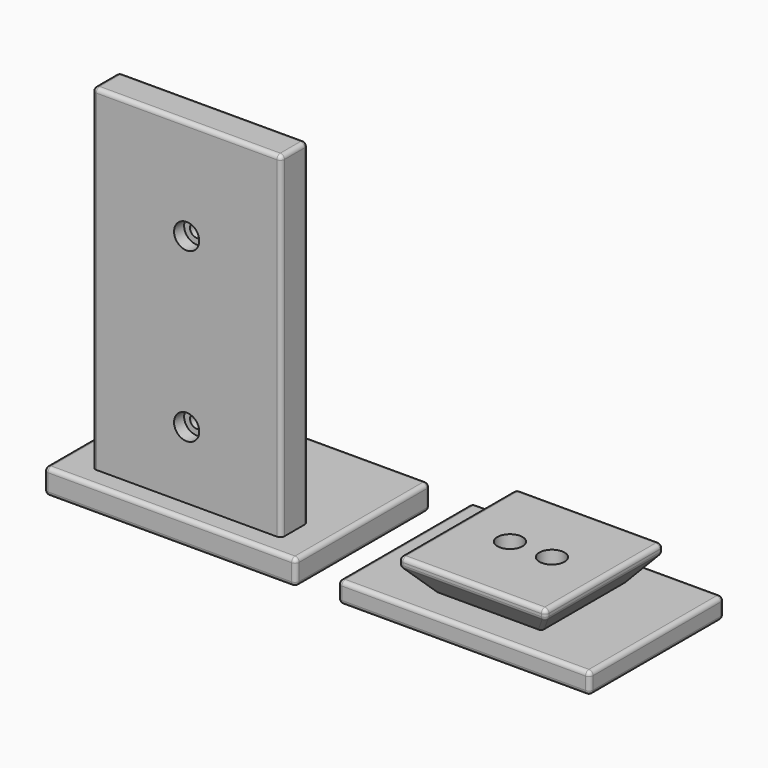
from build123d import *

# Parameters (mm, degrees)
CYLINDER001_R                        = 3
CYLINDER001_DEPTH                    = 10
CYLINDER002_R                        = 3
CYLINDER002_DEPTH                    = 10
CYLINDER003_R                        = 1.6
CYLINDER003_DEPTH                    = 10
CYLINDER_R                           = 1.6
CYLINDER_DEPTH                       = 10
SKETCH_W                             = 60
SKETCH_H                             = 40
EXTRUDE001_DEPTH                     = 5
FILLET001_R                          = 1
EXTRUDE003_DEPTH                     = 35
EXTRUDE003_ONTO_SKETCH002_ROLL_ANGLE = 90
EXTRUDE005_DEPTH                     = 35
SKETCH001_W                          = 35
SKETCH001_H                          = 35
EXTRUDE002_DEPTH                     = 8
FILLET_R                             = 1
CYLINDER005_R                        = 1.6
CYLINDER005_DEPTH                    = 10
EXTRUDE007_DEPTH                     = 3
EXTRUDE008_DEPTH                     = 3
CYLINDER004_R                        = 1.6
CYLINDER004_DEPTH                    = 10
SKETCH005_W                          = 60
SKETCH005_H                          = 40
EXTRUDE_DEPTH                        = 6
FILLET002_R                          = 1
CYLINDER008_R                        = 3
CYLINDER008_DEPTH                    = 3
CYLINDER006_R                        = 1.6
CYLINDER006_DEPTH                    = 10
CYLINDER007_R                        = 1.6
CYLINDER007_DEPTH                    = 10
CYLINDER009_R                        = 3
CYLINDER009_DEPTH                    = 3
SKETCH008_AS_DRAWN_W                 = 45
SKETCH008_AS_DRAWN_H                 = 80
EXTRUDE009_DEPTH                     = 8
EXTRUDE009_ONTO_SKETCH008_ROLL_ANGLE = 90
FILLET003_R                          = 1


with BuildPart() as cylinder001:
    # Cylinder001 → Cylinder001 (new body)
    with BuildSketch(Plane(origin=(5, 0, 3), x_dir=(1, 0, 0), z_dir=(0, 0, 1))):
        Circle(CYLINDER001_R)
    extrude(amount=CYLINDER001_DEPTH)


with BuildPart() as cylinder002:
    # Cylinder002 → Cylinder002 (new body)
    with BuildSketch(Plane(origin=(-5, 0, 3), x_dir=(1, 0, 0), z_dir=(0, 0, 1))):
        Circle(CYLINDER002_R)
    extrude(amount=CYLINDER002_DEPTH)


with BuildPart() as cylinder003:
    # Cylinder003 → Cylinder003 (new body)
    with BuildSketch(Plane(origin=(-5, 0, 0), x_dir=(1, 0, 0), z_dir=(0, 0, 1))):
        Circle(CYLINDER003_R)
    extrude(amount=CYLINDER003_DEPTH)


with BuildPart() as fusion:
    # Cylinder → Cylinder (new body)
    with BuildSketch(Plane(origin=(5, 0, 0), x_dir=(1, 0, 0), z_dir=(0, 0, 1))):
        Circle(CYLINDER_R)
    extrude(amount=CYLINDER_DEPTH)

    # Fusion: union Cylinder001, Cylinder002, Cylinder003
    add(cylinder001.part)
    add(cylinder002.part)
    add(cylinder003.part)


with BuildPart() as fillet001:
    # Sketch → Extrude001 (new body)
    with BuildSketch(Plane.XY):
        Rectangle(SKETCH_W, SKETCH_H)
    extrude(amount=EXTRUDE001_DEPTH)

    # Fillet001
    fillet001_edges = [fillet001.edges().sort_by_distance(p)[0] for p in [
        (-30, 20, 2.5),
        (30, 20, 2.5),
        (0, 20, 0),
        (0, 20, 5),
        (30, -20, 2.5),
        (30, 0, 0),
        (30, 0, 5),
        (-30, -20, 2.5),
        (0, -20, 0),
        (0, -20, 5),
        (-30, 0, 0),
        (-30, 0, 5),
    ]]
    fillet(fillet001_edges, radius=FILLET001_R)


with BuildPart() as extrude003:
    # Sketch002 as drawn → Extrude003 (new)
    with BuildSketch(Plane.XY):
        Polygon((17.5, 11), (17.5, 5), (12.5, 5), align=None)
    extrude(amount=-EXTRUDE003_DEPTH)


with BuildPart() as extrude003_1:
    # Extrude003 onto Sketch002 roll: moved
    add(extrude003.part.rotate(Axis((0, 0, 0), (1, 0, 0)), EXTRUDE003_ONTO_SKETCH002_ROLL_ANGLE))


with BuildPart() as extrude003_2:
    # Extrude003 onto Sketch002 placement: moved
    add(extrude003_1.part)


with BuildPart() as extrude003_3:
    # Extrude003 placement: moved
    add(extrude003_2.part.moved(Location((0, -17.5, 0))))


with BuildPart() as part_mirroring001:
    # Part__Mirroring001: instance of Extrude003
    add(extrude003_3.part.mirror(Plane(origin=(0, 0, 0), x_dir=(0, -1, 0), z_dir=(1, 0, 0))))


with BuildPart() as extrude006:
    # Sketch004 → Extrude005 (new body)
    with BuildSketch(Plane.YZ):
        Polygon((12.5, 5), (17.5, 11), (17.5, 5), align=None)
    extrude(amount=EXTRUDE005_DEPTH)


with BuildPart() as extrude006_1:
    # Extrude005 placement: moved
    add(extrude006.part.moved(Location((-17.5, 0, 0))))


with BuildPart() as part_mirroring:
    # Part__Mirroring: instance of Extrude006
    add(extrude006_1.part.mirror(Plane(origin=(0, 0, 0), x_dir=(1, 0, 0), z_dir=(0, 1, 0))))


with BuildPart() as cut004:
    # Sketch001 → Extrude002 (new body)
    with BuildSketch(Plane.XY):
        Rectangle(SKETCH001_W, SKETCH001_H)
    extrude(amount=EXTRUDE002_DEPTH)


with BuildPart() as cut004_1:
    # Extrude002 placement: moved
    add(cut004.part.moved(Location((0, 0, 5))))

    # Cut: cut Extrude006
    add(extrude006_1.part, mode=Mode.SUBTRACT)

    # Cut001: cut Extrude003
    add(extrude003_3.part, mode=Mode.SUBTRACT)

    # Cut002: cut Part__Mirroring
    add(part_mirroring.part, mode=Mode.SUBTRACT)

    # Cut003: cut Part__Mirroring001
    add(part_mirroring001.part, mode=Mode.SUBTRACT)

    # Fillet
    fillet_edges = [cut004_1.edges().sort_by_distance(p)[0] for p in [
        (0, -17.5, 11),
        (-17.5, -17.5, 12),
        (17.5, -17.5, 12),
        (0, -17.5, 13),
        (15, -15, 8),
        (0, -12.5, 5),
        (-15, -15, 8),
        (-17.5, 0, 13),
        (-17.5, 17.5, 12),
        (-17.5, 0, 11),
        (17.5, 0, 11),
        (17.5, 17.5, 12),
        (17.5, 0, 13),
        (0, 17.5, 13),
        (15, 15, 8),
        (12.5, 0, 5),
        (0, 12.5, 5),
        (-12.5, 0, 5),
        (-15, 15, 8),
        (0, 17.5, 11),
    ]]
    fillet(fillet_edges, radius=FILLET_R)

    # Fusion001: union Fillet001
    add(fillet001.part)

    # Cut004: cut Fusion
    add(fusion.part, mode=Mode.SUBTRACT)


with BuildPart() as cut004_2:
    # Cut004 placement: moved
    add(cut004_1.part.moved(Location((70, 0, 0))))


with BuildPart() as cylinder005:
    # Cylinder005 → Cylinder005 (new body)
    with BuildSketch(Plane(origin=(-5, 0, 0), x_dir=(1, 0, 0), z_dir=(0, 0, 1))):
        Circle(CYLINDER005_R)
    extrude(amount=CYLINDER005_DEPTH)


with BuildPart() as extrude010:
    # Sketch006 → Extrude007 (new body)
    with BuildSketch(Plane(origin=(-5, 0, 3), x_dir=(1, 0, 0), z_dir=(0, 0, 1))):
        Polygon((1.6, -2.771281), (3.2, 0), (1.6, 2.771281), (-1.6, 2.771281), (-3.2, 0), (-1.6, -2.771281), align=None)
    extrude(amount=EXTRUDE007_DEPTH)


with BuildPart() as extrude011:
    # Sketch007 → Extrude008 (new body)
    with BuildSketch(Plane(origin=(5, 0, 3), x_dir=(1, 0, 0), z_dir=(0, 0, 1))):
        Polygon((1.6, -2.771281), (3.2, 0), (1.6, 2.771281), (-1.6, 2.771281), (-3.2, 0), (-1.6, -2.771281), align=None)
    extrude(amount=EXTRUDE008_DEPTH)


with BuildPart() as fusion002:
    # Cylinder004 → Cylinder004 (new body)
    with BuildSketch(Plane(origin=(5, 0, 0), x_dir=(1, 0, 0), z_dir=(0, 0, 1))):
        Circle(CYLINDER004_R)
    extrude(amount=CYLINDER004_DEPTH)

    # Fusion002: union Cylinder005, Extrude010, Extrude011
    add(cylinder005.part)
    add(extrude010.part)
    add(extrude011.part)


with BuildPart() as cut005:
    # Sketch005 → Extrude (new body)
    with BuildSketch(Plane.XY):
        Rectangle(SKETCH005_W, SKETCH005_H)
    extrude(amount=EXTRUDE_DEPTH)

    # Fillet002
    fillet002_edges = [cut005.edges().sort_by_distance(p)[0] for p in [
        (-30, 20, 3),
        (30, 20, 3),
        (0, 20, 0),
        (0, 20, 6),
        (30, -20, 3),
        (30, 0, 0),
        (30, 0, 6),
        (-30, -20, 3),
        (0, -20, 0),
        (0, -20, 6),
        (-30, 0, 0),
        (-30, 0, 6),
    ]]
    fillet(fillet002_edges, radius=FILLET002_R)

    # Cut005: cut Fusion002
    add(fusion002.part, mode=Mode.SUBTRACT)


with BuildPart() as cylinder008:
    # Cylinder008 → Cylinder008 (new body)
    with BuildSketch(Plane(origin=(0, -15, 62), x_dir=(0, 0, 1), z_dir=(0, 1, 0))):
        Circle(CYLINDER008_R)
    extrude(amount=CYLINDER008_DEPTH)


with BuildPart() as cylinder006:
    # Cylinder006 → Cylinder006 (new body)
    with BuildSketch(Plane(origin=(0, -15, 62), x_dir=(0, 0, 1), z_dir=(0, 1, 0))):
        Circle(CYLINDER006_R)
    extrude(amount=CYLINDER006_DEPTH)


with BuildPart() as cylinder007:
    # Cylinder007 → Cylinder007 (new body)
    with BuildSketch(Plane(origin=(0, -15, 22), x_dir=(0, 0, 1), z_dir=(0, 1, 0))):
        Circle(CYLINDER007_R)
    extrude(amount=CYLINDER007_DEPTH)


with BuildPart() as fusion003:
    # Cylinder009 → Cylinder009 (new body)
    with BuildSketch(Plane(origin=(0, -15, 22), x_dir=(0, 0, 1), z_dir=(0, 1, 0))):
        Circle(CYLINDER009_R)
    extrude(amount=CYLINDER009_DEPTH)

    # Fusion003: union Cylinder008, Cylinder006, Cylinder007
    add(cylinder008.part)
    add(cylinder006.part)
    add(cylinder007.part)


with BuildPart() as fusion004:
    # Sketch008 as drawn → Extrude009 (new)
    with BuildSketch(Plane.XY):
        with Locations((0, 40)):
            Rectangle(SKETCH008_AS_DRAWN_W, SKETCH008_AS_DRAWN_H)
    extrude(amount=-EXTRUDE009_DEPTH)


with BuildPart() as fusion004_1:
    # Extrude009 onto Sketch008 roll: moved
    add(fusion004.part.rotate(Axis((0, 0, 0), (1, 0, 0)), EXTRUDE009_ONTO_SKETCH008_ROLL_ANGLE))


with BuildPart() as fusion004_2:
    # Extrude009 onto Sketch008 placement: moved
    add(fusion004_1.part.moved(Location((0, -15, 6))))

    # Fillet003
    fillet003_edges = [fusion004_2.edges().sort_by_distance(p)[0] for p in [
        (-22.5, -11, 86),
        (-22.5, -15, 46),
        (-22.5, -7, 46),
        (22.5, -11, 86),
        (0, -15, 86),
        (0, -7, 86),
        (22.5, -15, 46),
        (22.5, -7, 46),
    ]]
    fillet(fillet003_edges, radius=FILLET003_R)

    # Cut006: cut Fusion003
    add(fusion003.part, mode=Mode.SUBTRACT)

    # Fusion004: union Cut005
    add(cut005.part)


solid = Compound([cut004_2.part, fusion004_2.part])
